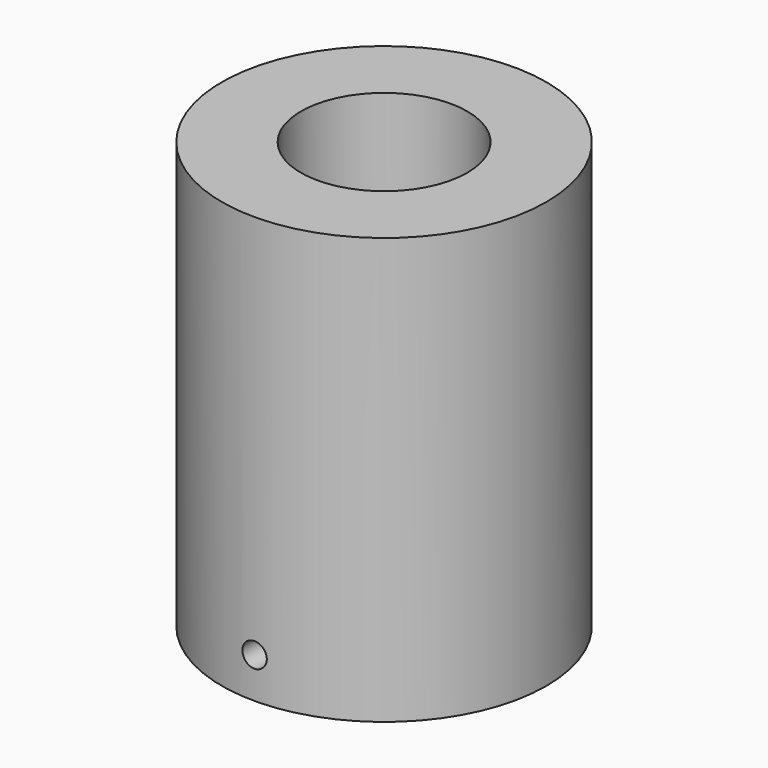
from build123d import *

# Parameters (mm, degrees)
F0_R     = 40
F1_DEPTH = 105
F2_R     = 20.5
F3_DEPTH = 105.001
F4_R     = 3
F5_DEPTH = 40.001


with BuildPart() as f1:
    # F0 (on Top) → F1 (new body)
    with BuildSketch(Plane.XY):
        Circle(F0_R)
    extrude(amount=F1_DEPTH)

    # F2 (on face) → F3 (cut, through all)
    with BuildSketch(Plane.XY.offset(105)):
        Circle(F2_R)
    extrude(amount=-F3_DEPTH, mode=Mode.SUBTRACT)

    # F4 (on Front) → F5 (cut, through all)
    with BuildSketch(Plane.XZ):
        with Locations((0, 10)):
            Circle(F4_R)
    extrude(amount=F5_DEPTH, mode=Mode.SUBTRACT)


solid = f1.part
